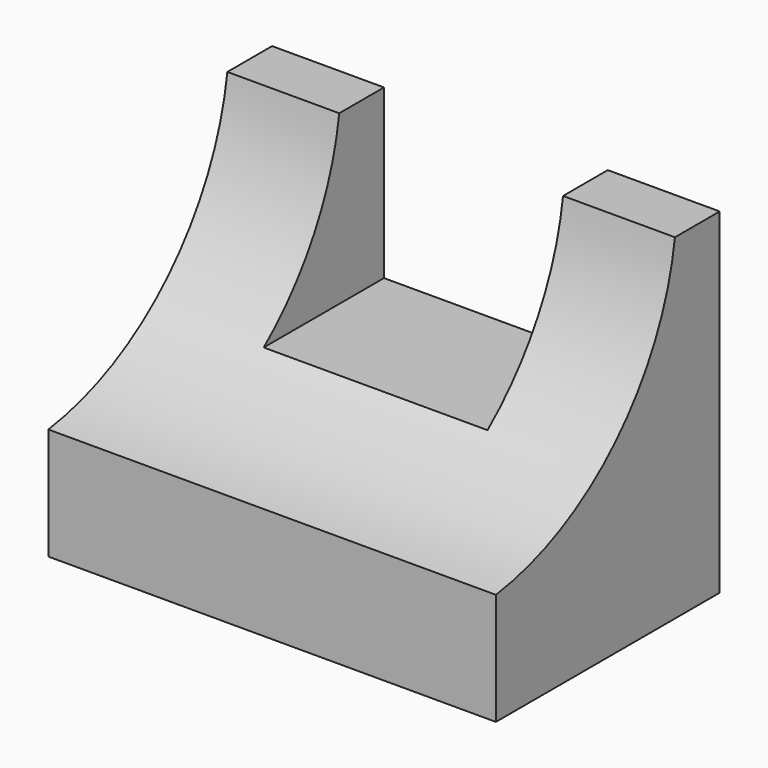
from build123d import *

# Parameters (mm, degrees)
F0_W     = 50.8
F0_H     = 38.1
F1_DEPTH = 31.75
F2_W     = 25.4
F2_H     = 19.05
F3_DEPTH = 31.75
F5_DEPTH = 50.8


with BuildPart() as f1:
    # F0 (on Front) → F1 (new body)
    with BuildSketch(Plane.XZ):
        with Locations((25.4, 19.05)):
            Rectangle(F0_W, F0_H)
    extrude(amount=F1_DEPTH)

    # F2 (on face) → F3 (cut)
    with BuildSketch(Plane.XZ.offset(31.75)):
        with Locations((25.4, 28.575)):
            Rectangle(F2_W, F2_H)
    extrude(amount=-F3_DEPTH, mode=Mode.SUBTRACT)

    # F4 (on face) → F5 (cut)
    with BuildSketch(Plane.YZ.offset(50.8)):
        with BuildLine():
            Line((-31.75, 38.1), (-31.75, 12.7))
            ThreePointArc((-31.75, 12.7), (-14.767814, 21.117814), (-6.35, 38.1))
            Line((-6.35, 38.1), (-31.75, 38.1))
        make_face()
    extrude(amount=-F5_DEPTH, mode=Mode.SUBTRACT)


solid = f1.part
